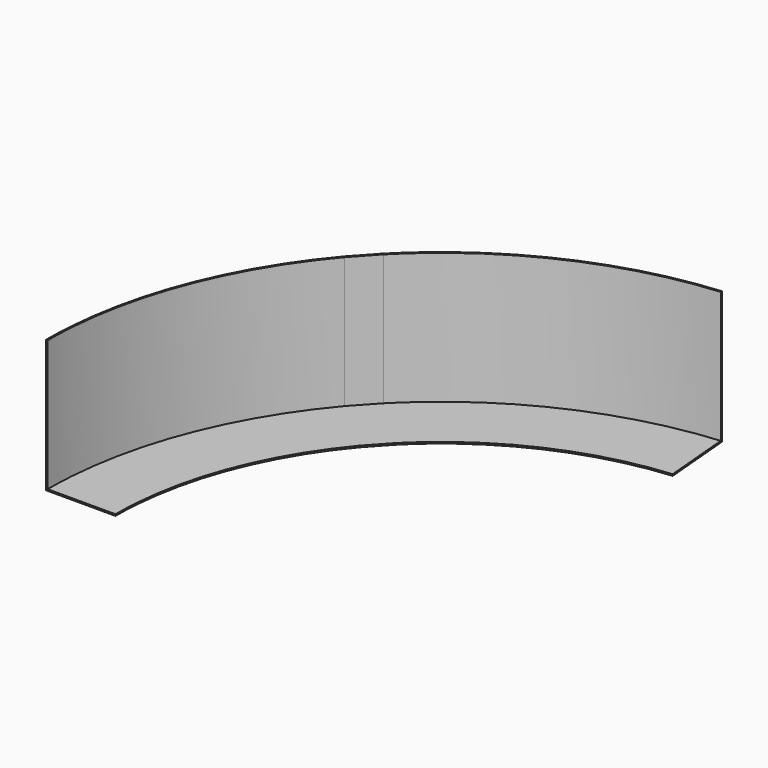
from build123d import *


with BuildPart() as f2:
    # F2: sweep along a path in F1
    with BuildLine(Plane.XY) as f2_path:
        ThreePointArc((945.2663377975, 1277.1216029536), (512.5198472769, 1160.6314502419), (146.3091123304, 902.3115355107))
        Line((146.3091123304, 902.3115355107), (78.7500915689, 828.5838018297))
        ThreePointArc((78.7500915689, 828.5838018297), (-146.6694692914, 441.2525452569), (-225, 0))
    # F0 (on Front) → F2 (sweep)
    with BuildSketch(Plane.XZ):
        Polygon((-225, 0), (0, 0), (0, 5), (-220, 5), (-220, 430), (-225, 430), align=None)
    sweep(path=f2_path.line, transition=Transition.RIGHT)


solid = f2.part
